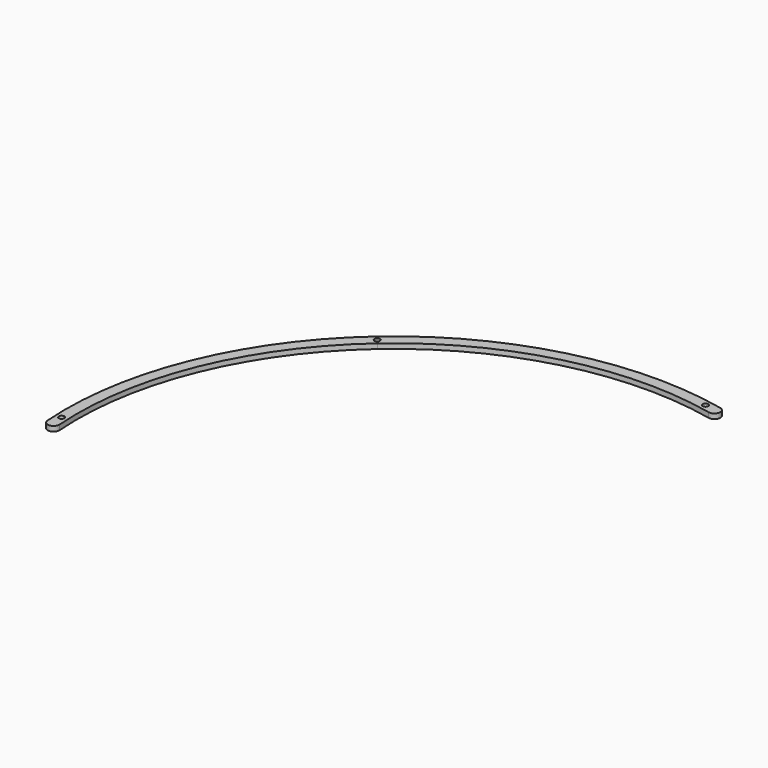
from build123d import *

# Parameters (mm, degrees)
PAD015_DEPTH                        = 3
SKETCH054_R                         = 1.65
POCKET018_DEPTH                     = 358.938883
POCKET018_DEPTH_BACK                = 361.938883
BODY001003005003004_PLACEMENT_ANGLE = 60
CLONE005_PLACEMENT_ANGLE            = 19


with BuildPart() as part:
    # Sketch053 → Pad015 (new body)
    with BuildSketch(Plane.XY):
        with BuildLine():
            ThreePointArc((152.005097, 113.785532), (84.992984, 169.790723), (0, 189.875477))
            Line((0, 189.875477), (0, 196.875477))
            ThreePointArc((157.608957, 117.98038), (88.126358, 176.050273), (0, 196.875477))
            ThreePointArc((152.005097, 113.785532), (156.904451, 113.081026), (157.608957, 117.98038))
        make_face()
    pad015 = extrude(amount=PAD015_DEPTH)

    # Sketch054 → Pocket018 (cut, two sides)
    with BuildSketch(Plane.XY) as pocket018_sk:
        with Locations((150.82443, 121.020933)):
            Circle(SKETCH054_R)
        with BuildLine():
            ThreePointArc((0, 191.725477), (1.65, 193.375477), (0, 195.025477))
            Line((0, 191.725477), (0, 195.025477))
        make_face()
    pocket018 = extrude(amount=-POCKET018_DEPTH, mode=Mode.SUBTRACT) + extrude(pocket018_sk.sketch, amount=POCKET018_DEPTH_BACK, mode=Mode.SUBTRACT)

    # Mirrored020: Pad015, Pocket018 across Sketch053 V_Axis
    add(pad015.mirror(Plane(origin=(0, 0, 0), x_dir=(0, 0, 1), z_dir=(1, 0, 0))))
    add(pocket018.mirror(Plane(origin=(0, 0, 0), x_dir=(0, 0, 1), z_dir=(1, 0, 0))), mode=Mode.SUBTRACT)


with BuildPart() as part_1:
    # Body001003005003004 placement: moved
    add(part.part.rotate(Axis((0, 0, 0), (0, 0, 1)), BODY001003005003004_PLACEMENT_ANGLE))


with BuildPart() as part_2:
    # Clone005 placement: moved
    add(part_1.part.moved(Location((1038, 469, 0))).rotate(Axis((1038, 469, 0), (0, 0, -1)), CLONE005_PLACEMENT_ANGLE))


solid = part_2.part
